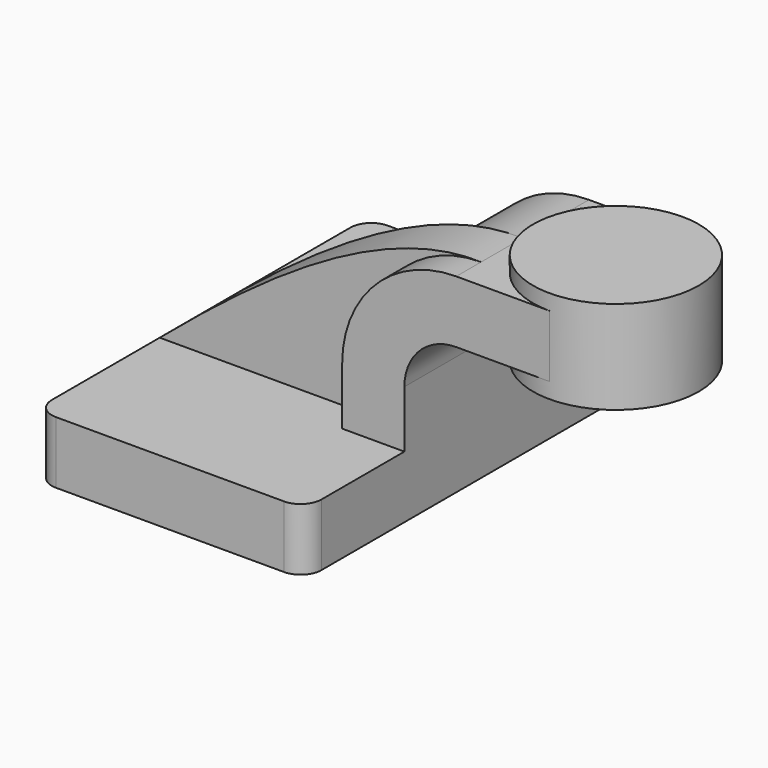
from build123d import *

# Parameters (mm, degrees)
F1_DEPTH = 63.5
F0_W     = 25.402003606
F0_H     = 19.05
F2_DEPTH = 25.4
F3_DEPTH = 15.875
F5_R     = 6.35


with BuildPart() as f1:
    # F0 (on Front) → F1 (new body, symmetric)
    with BuildSketch(Plane.XZ):
        Polygon((22.225, 9.525), (-41.275, 9.525), (-41.275, -9.525), (41.275, -9.525), (41.275, 9.525), align=None)
    extrude(amount=F1_DEPTH, both=True)

    # F0 (on Front) → F2 (join, symmetric)
    with BuildSketch(Plane.XZ):
        with BuildLine():
            Line((22.225, 27.0002), (22.225, 9.525))
            Line((22.225, 9.525), (41.275, 9.525))
            Line((41.275, 9.525), (41.275, 27.0002))
            ThreePointArc((41.275, 27.0002), (45.9246798487, 38.2255201513), (57.15, 42.8752))
            Line((57.15, 42.8752), (60.325, 42.8752))
            Line((60.325, 42.8752), (60.325, 61.9252))
            Line((60.325, 61.9252), (57.15, 61.9252))
            ThreePointArc((57.15, 61.9252), (32.4542956671, 51.6959043329), (22.225, 27.0002))
        make_face()
        with Locations((73.026001803, 52.4002)):
            Rectangle(F0_W, F0_H)
    extrude(amount=F2_DEPTH, both=True)

    # F0 (on Front) → F3 (join)
    with BuildSketch(Plane.XZ):
        with BuildLine():
            add(Edge.make_bspline(
                [(-41.275, 9.525), (-14.1619439489, 32.5014305517), (24.7363013962, 62.9349157899), (57.15, 61.9252)],
                knots=[0, 0, 0, 0, 111.5045361635, 111.5045361635, 111.5045361635, 111.5045361635], degree=3))
            Line((-41.275, 9.525), (22.225, 9.525))
            Line((22.225, 9.525), (22.225, 27.0002))
            ThreePointArc((22.225, 27.0002), (32.4542956671, 51.6959043329), (57.15, 61.9252))
        make_face()
    extrude(amount=F3_DEPTH)

    # F0 (on Front) → F4 (revolve)
    with BuildSketch(Plane.XZ):
        Polygon((85.727003606, 66.675), (85.727003606, 61.9252), (85.727003606, 42.8752), (85.727003606, 38.1), (111.125, 38.1), (111.125, 66.675), align=None)
    revolve(axis=Axis((85.727003606, 0, 52.3875), (0, 0, 1)))

    # F5
    f5_edges = [f1.edges().sort_by_distance(p)[0] for p in [
        (41.275, -63.5, 0),
        (-41.275, -63.5, 0),
        (-41.275, 63.5, 0),
        (41.275, 63.5, 0),
    ]]
    fillet(f5_edges, radius=F5_R)


solid = f1.part
